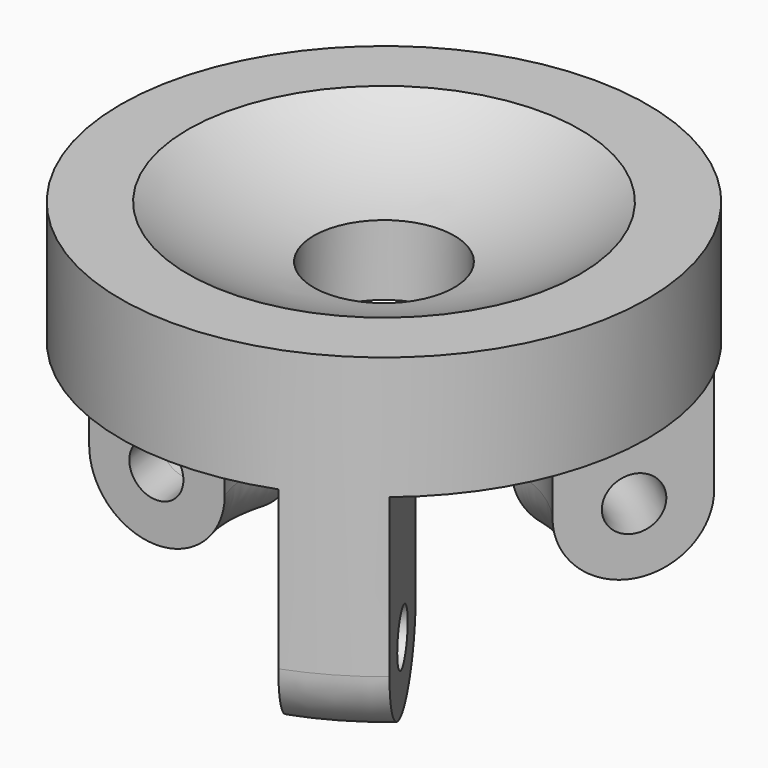
from build123d import *

# Parameters (mm, degrees)
F0_R     = 3
F5_DEPTH = 25.501


with BuildPart() as f2:
    # F0 (on Front) → F2 (revolve)
    with BuildSketch(Plane.XZ):
        with BuildLine():
            ThreePointArc((-8, -6), (-15.455298, -3.701711), (-22.32268, 0))
            Line((-22.32268, 0), (-30, 0))
            Line((-30, 0), (-30, -32))
            ThreePointArc((-30, -32), (-22.5, -39.5), (-15, -32))
            Line((-15, -32), (-15, -14))
            Line((-15, -14), (-8, -14))
            Line((-8, -14), (-8, -6))
        make_face()
        with Locations((-22.5, -32)):
            Circle(F0_R, mode=Mode.SUBTRACT)
    revolve(axis=Axis((0, 0, -7), (0, 0, -1)))

    # F4 (on offset) → F5 (cut, through all)
    with BuildSketch(Plane.XY.offset(-14)):
        with BuildLine():
            Line((-2.886751, 5), (10.460072, 28.117377))
            ThreePointArc((10.460072, 28.117377), (-15, 25.980762), (-29.580399, 5))
            Line((-29.580399, 5), (-2.886751, 5))
        make_face()
        with BuildLine():
            ThreePointArc((19.120326, -23.117377), (27.14415, -12.774784), (30, 0))
            ThreePointArc((30, 0), (27.14415, 12.774784), (19.120326, 23.117377))
            Line((19.120326, 23.117377), (5.773503, 0))
            Line((5.773503, 0), (19.120326, -23.117377))
        make_face()
        with BuildLine():
            ThreePointArc((-29.580399, -5), (-15, -25.980762), (10.460072, -28.117377))
            Line((10.460072, -28.117377), (-2.886751, -5))
            Line((-2.886751, -5), (-29.580399, -5))
        make_face()
    extrude(amount=-F5_DEPTH, mode=Mode.SUBTRACT)


solid = f2.part
